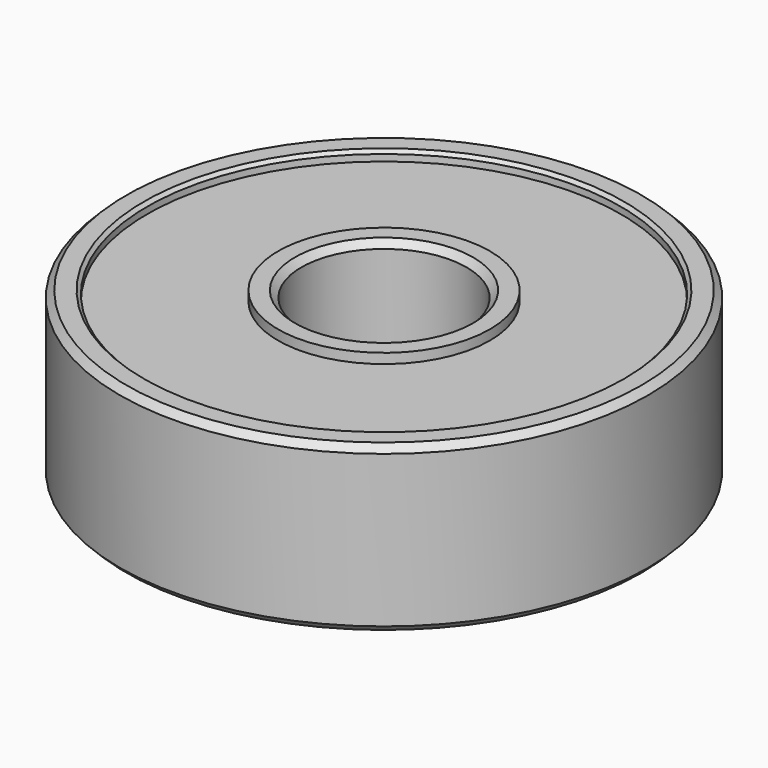
from build123d import *

# Parameters (mm, degrees)
CYLINDER_R        = 8
CYLINDER_DEPTH    = 5
CYLINDER001_R     = 2.5
CYLINDER001_DEPTH = 10
CHAMFER_SIZE      = 0.2
SKETCH_R          = 7.171484
SKETCH_R_2        = 3.208205
POCKET_DEPTH      = 0.3
SKETCH001_R       = 7.114293
SKETCH001_R_2     = 3.634589
POCKET001_DEPTH   = 0.3
CHAMFER001_SIZE   = 0.1


with BuildPart() as part:
    # Cylinder → Cylinder (join)
    with BuildSketch(Plane.XY):
        Circle(CYLINDER_R)
    extrude(amount=CYLINDER_DEPTH)

    # Cylinder001 → Cylinder001 (cut)
    with BuildSketch(Plane.XY):
        Circle(CYLINDER001_R)
    extrude(amount=CYLINDER001_DEPTH, mode=Mode.SUBTRACT)

    # Chamfer
    chamfer_edges = [part.edges().sort_by_distance(p)[0] for p in [
        (-8, 0, 5),
        (-8, 0, 0),
        (-2.5, 0, 5),
        (-2.5, 0, 0),
    ]]
    chamfer(chamfer_edges, length=CHAMFER_SIZE)

    # Sketch (on Face5 of Chamfer) → Pocket (cut)
    with BuildSketch(Plane.XY.offset(5)):
        Circle(SKETCH_R)
        Circle(SKETCH_R_2, mode=Mode.SUBTRACT)
    extrude(amount=-POCKET_DEPTH, mode=Mode.SUBTRACT)

    # Sketch001 (on Face4 of Pocket) → Pocket001 (cut)
    with BuildSketch(Plane(origin=(0, 0, 0), x_dir=(1, 0, 0), z_dir=(0, 0, -1))):
        Circle(SKETCH001_R)
        Circle(SKETCH001_R_2, mode=Mode.SUBTRACT)
    extrude(amount=-POCKET001_DEPTH, mode=Mode.SUBTRACT)

    # Chamfer001
    chamfer001_edges = [part.edges().sort_by_distance(p)[0] for p in [
        (-7.171484, 0, 5),
        (-7.114293, 0, 0),
    ]]
    chamfer(chamfer001_edges, length=CHAMFER001_SIZE)


solid = part.part
